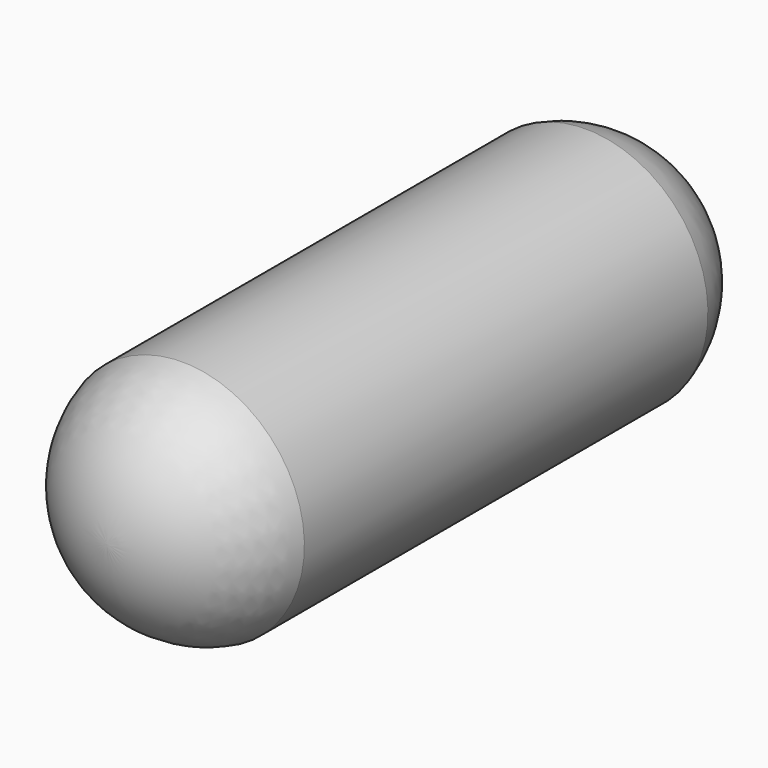
from build123d import *


with BuildPart() as f1:
    # F0 (on Right) → F1 (revolve)
    with BuildSketch(Plane.YZ):
        with BuildLine():
            ThreePointArc((-558.8, 196.747554), (-516.243705, 72.313475), (-406.4, 0))
            Line((-406.4, 0), (406.4, 0))
            ThreePointArc((406.4, 0), (516.243705, 72.313475), (558.8, 196.747554))
            Line((558.8, 196.747554), (-558.8, 196.747554))
        make_face()
    revolve(axis=Axis((0, 0, 196.747554), (0, 1, 0)))


solid = f1.part
